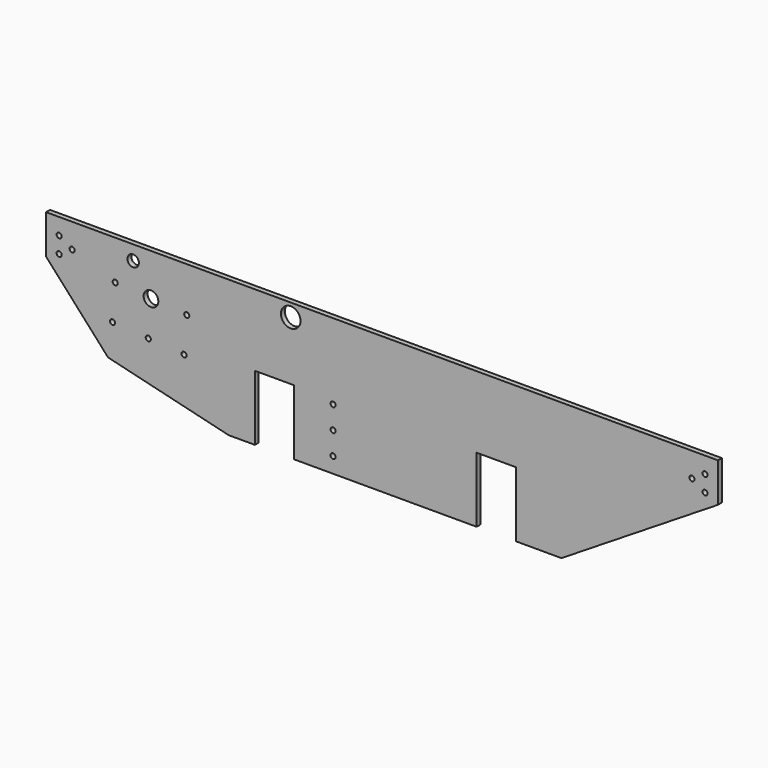
from build123d import *

# Parameters (mm, degrees)
F1_DEPTH = 2.38125
F2_R     = 1.2446
F2_R_2   = 4.7625
F2_R_3   = 3.571875
F2_R_4   = 2.778125
F3_DEPTH = 2.38125


with BuildPart() as f1:
    # F0 (on Front) → F1 (new body)
    with BuildSketch(Plane.XZ):
        Polygon((282.359224, 19.05), (-44.665776, 19.05), (-44.665776, 0), (-14.503276, -33.402232), (44.234224, -47.625), (56.934224, -47.625), (56.934224, -15.875), (75.984224, -15.875), (75.984224, -47.625), (164.884224, -47.625), (164.884224, -15.875), (183.934224, -15.875), (183.934224, -47.625), (206.159224, -47.625), (282.359224, 0), align=None)
    extrude(amount=F1_DEPTH)

    # F2 (on face) → F3 (cut)
    with BuildSketch(Plane.XZ.offset(2.38125)):
        with Locations((276.009224, 11.1125)):
            Circle(F2_R)
        with Locations((276.009224, 3.175)):
            Circle(F2_R)
        with Locations((269.659224, 7.14375)):
            Circle(F2_R)
        with Locations((74.396724, 12.7)):
            Circle(F2_R_2)
        with Locations((95.034224, -17.866384)):
            Circle(F2_R)
        with Locations((95.034224, -28.978884)):
            Circle(F2_R)
        with Locations((95.034224, -40.091384)):
            Circle(F2_R)
        with Locations((-38.315776, 11.1125)):
            Circle(F2_R)
        with Locations((-38.315776, 3.175)):
            Circle(F2_R)
        with Locations((-31.965776, 7.14375)):
            Circle(F2_R)
        with BuildLine():
            ThreePointArc((21.238677, -20.095719), (22.385265, -21.431157), (23.720703, -20.284569))
            Line((23.720703, -20.284569), (21.238677, -20.095719))
        make_face()
        with BuildLine():
            ThreePointArc((-10.925388, 1.112718), (-12.260826, -0.03387), (-11.114238, -1.369308))
            Line((-11.114238, -1.369308), (-10.925388, 1.112718))
        make_face()
        with BuildLine():
            Line((-10.925388, 1.112718), (-11.114238, -1.369308))
            ThreePointArc((-11.114238, -1.369308), (-10.173791, -1.041134), (-9.775213, -0.128295))
            ThreePointArc((-9.775213, -0.128295), (-10.106974, 0.717728), (-10.925388, 1.112718))
        make_face()
        with BuildLine():
            ThreePointArc((-13.585665, -17.446041), (-12.439077, -18.781479), (-11.103639, -17.634891))
            Line((-11.103639, -17.634891), (-12.344652, -17.540466))
            Line((-12.344652, -17.540466), (-13.585665, -17.446041))
        make_face()
        with BuildLine():
            Line((-12.344652, -17.540466), (-11.103639, -17.634891))
            ThreePointArc((-11.103639, -17.634891), (-11.100949, -17.587712), (-11.100052, -17.540466))
            ThreePointArc((-11.100052, -17.540466), (-11.431813, -16.694444), (-12.250227, -16.299453))
            Line((-12.250227, -16.299453), (-12.344652, -17.540466))
        make_face()
        with BuildLine():
            ThreePointArc((3.826506, -18.77088), (4.973094, -20.106318), (6.308532, -18.95973))
            Line((6.308532, -18.95973), (3.826506, -18.77088))
        make_face()
        with BuildLine():
            Line((3.826506, -18.77088), (6.308532, -18.95973))
            ThreePointArc((6.308532, -18.95973), (6.311222, -18.912552), (6.312119, -18.865305))
            ThreePointArc((6.312119, -18.865305), (5.114765, -17.621602), (3.826506, -18.77088))
        make_face()
        with BuildLine():
            Line((21.238677, -20.095719), (23.720703, -20.284569))
            ThreePointArc((23.720703, -20.284569), (23.723393, -20.237391), (23.72429, -20.190144))
            ThreePointArc((23.72429, -20.190144), (22.526937, -18.946441), (21.238677, -20.095719))
        make_face()
        with BuildLine():
            Line((-13.585665, -17.446041), (-12.344652, -17.540466))
            Line((-12.344652, -17.540466), (-12.250227, -16.299453))
            ThreePointArc((-12.250227, -16.299453), (-13.155413, -16.596169), (-13.585665, -17.446041))
        make_face()
        with Locations((23.804529, -2.777973)):
            Circle(F2_R)
        with Locations((6.392358, -1.453134)):
            Circle(F2_R_3)
        with Locations((-2.287686, 11.944013)):
            Circle(F2_R_4)
    extrude(amount=-F3_DEPTH, mode=Mode.SUBTRACT)


solid = f1.part
